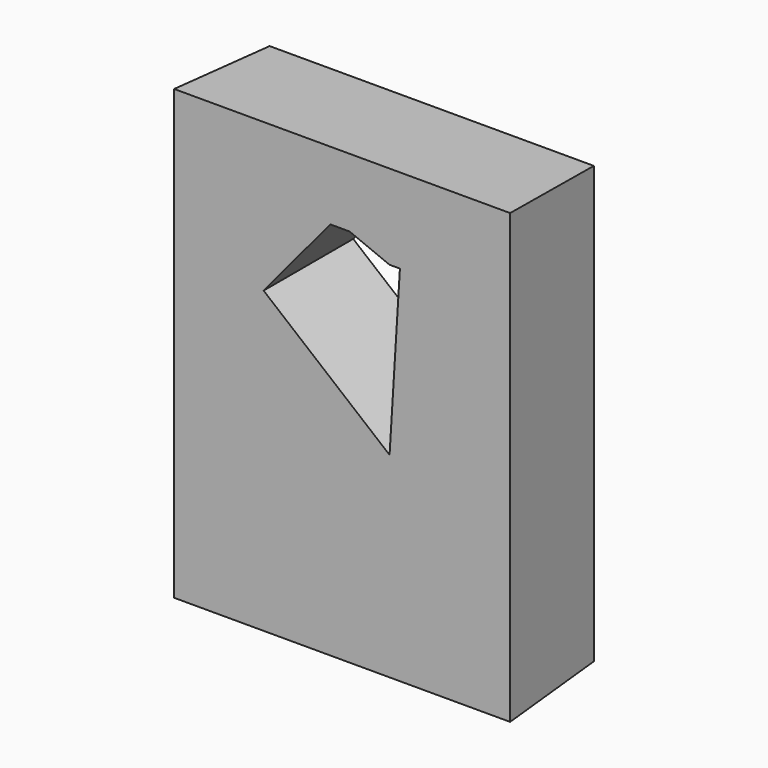
from build123d import *

# Parameters (mm, degrees)
F0_W     = 76.2
F0_H     = 101.6
F1_DEPTH = 25.4
F1_TAPER = 3
F3_DEPTH = 25.4


with BuildPart() as f1:
    # F0 (on Front) → F1 (new body)
    with BuildSketch(Plane.XZ):
        with Locations((38.1, 50.8)):
            Rectangle(F0_W, F0_H)
    extrude(amount=-F1_DEPTH, taper=F1_TAPER)

    # F2 (on face) → F3 (cut, through all)
    with BuildSketch(Plane(origin=(0, 25.4, 0), x_dir=(-1, 0, 0), z_dir=(0, 1, 0))):
        Polygon((-51.2043759227, 82.3849141598), (-48.8523095846, 44.4158129394), (-20.2914793044, 67.9364949465), (-35.4119129479, 86.081020534), (-39.7800467908, 86.081020534), (-48.8523095846, 82.3849141598), align=None)
    extrude(amount=-F3_DEPTH, mode=Mode.SUBTRACT)


solid = f1.part
